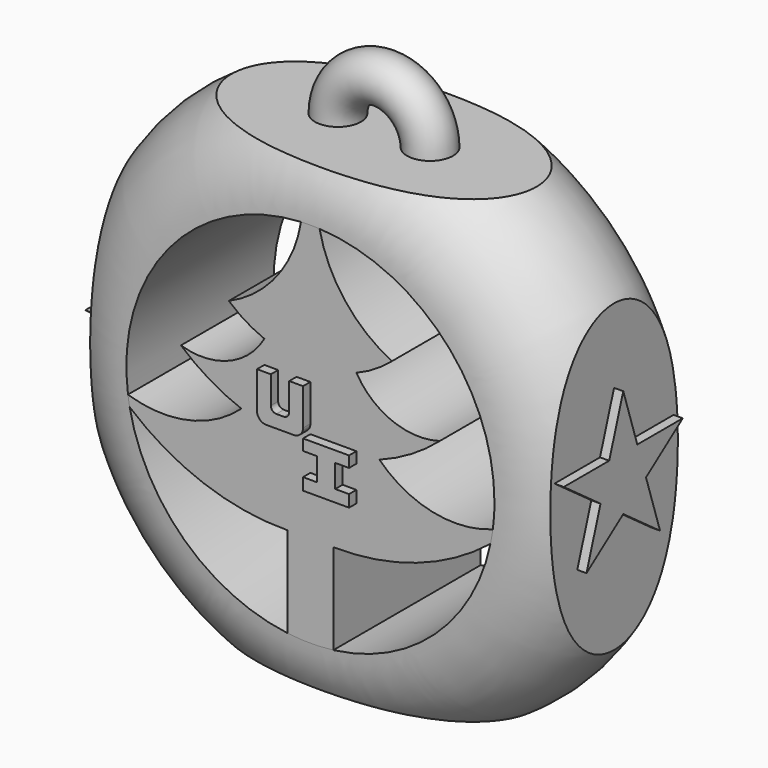
from build123d import *

# Parameters (mm, degrees)
F3_DEPTH  = 145.87753
F4_DEPTH  = 112.83821
F5_DEPTH  = 60.78723
F6_DEPTH  = 63.80149
F8_DEPTH  = 73.0751
F9_DEPTH  = 74.54353
F10_R     = 6.35
F11_ANGLE = 180
F13_DEPTH = 2.54
F15_DEPTH = 2.54
F17_DEPTH = 2.54
F18_W     = 1.778
F18_H     = 3.8097179257
F19_DEPTH = 2.54


with BuildPart() as f1:
    # F0 (on Top) → F1 (revolve)
    with BuildSketch(Plane.XY):
        Polygon((0, 25.4), (0, 0), (0, -25.4), (50.8, -25.4), (50.8, 25.4), align=None)
        with BuildLine():
            ThreePointArc((50.8, -25.4), (76.2, 0), (50.8, 25.4))
            Line((50.8, 25.4), (50.8, -25.4))
        make_face()
    revolve(axis=Axis((0, 12.7, 0), (0, 1, 0)))

    # F2 (on face) → F3 (cut)
    with BuildSketch(Plane.XZ.offset(25.4)):
        with BuildLine():
            Line((-6.35, -50.4015624758), (-6.35, -48.26))
            Line((-6.35, -48.26), (-6.35, -25.4))
            ThreePointArc((-6.35, -25.4), (-29.5469022519, -21.4664320904), (-49.8793656792, -9.6275063977))
            ThreePointArc((-49.8793656792, -9.6275063977), (-34.7284653193, -37.0752437155), (-6.35, -50.4015624758))
        make_face()
    extrude(amount=-F3_DEPTH, mode=Mode.SUBTRACT)

    # F2 (on face) → F4 (cut)
    with BuildSketch(Plane.XZ.offset(25.4)):
        with BuildLine():
            ThreePointArc((19.05, 0), (33.7163803777, -7.9365616125), (50.3499719735, -6.746875))
            ThreePointArc((50.3499719735, -6.746875), (50.6873681318, -3.38093358), (50.8, 0))
            ThreePointArc((50.8, 0), (36.8060252797, 35.0136616639), (2.5339959405, 50.7367604856))
            ThreePointArc((2.5339959405, 50.7367604856), (9.537837341, 35.574870876), (22.5171919996, 25.0642551215))
            ThreePointArc((22.5171919996, 25.0642551215), (17.8635234277, 21.6410042911), (12.7, 19.05))
            ThreePointArc((12.7, 19.05), (22.6505587447, 10.548597504), (35.725363971, 9.9681390439))
            ThreePointArc((35.725363971, 9.9681390439), (27.837494024, 4.2315941172), (19.05, 0))
        make_face()
    extrude(amount=-F4_DEPTH, mode=Mode.SUBTRACT)

    # F2 (on face) → F5 (cut)
    with BuildSketch(Plane.XZ.offset(25.4)):
        with BuildLine():
            ThreePointArc((-2.5916899181, 50.7338461322), (-39.073177711, 32.4642385336), (-50.3499719735, -6.746875))
            ThreePointArc((-50.3499719735, -6.746875), (-33.7914821841, -7.5881507653), (-19.05, 0))
            ThreePointArc((-19.05, 0), (-27.837494024, 4.2315941172), (-35.725363971, 9.9681390439))
            ThreePointArc((-35.725363971, 9.9681390439), (-22.6151878126, 10.4589211052), (-12.7, 19.05))
            ThreePointArc((-12.7, 19.05), (-17.8635234277, 21.6410042911), (-22.5171919996, 25.0642551215))
            ThreePointArc((-22.5171919996, 25.0642551215), (-9.2730208555, 35.3519144815), (-2.5916899181, 50.7338461322))
        make_face()
    extrude(amount=-F5_DEPTH, mode=Mode.SUBTRACT)

    # F2 (on face) → F6 (cut)
    with BuildSketch(Plane.XZ.offset(25.4)):
        with BuildLine():
            Line((6.35, -48.26), (6.35, -50.4015624758))
            ThreePointArc((6.35, -50.4015624758), (34.4111853788, -37.3699119724), (49.7079998206, -10.4763903058))
            ThreePointArc((49.7079998206, -10.4763903058), (29.3310153311, -21.7209786442), (6.35, -25.4))
            Line((6.35, -25.4), (6.35, -48.26))
        make_face()
    extrude(amount=-F6_DEPTH, mode=Mode.SUBTRACT)

    # F7 (on face) → F8 (cut)
    with BuildSketch(Plane.XZ.offset(25.4)):
        Polygon((74.1625726223, -63.5), (0, -63.5), (-69.3134739995, -63.5), (-69.3134739995, -78.2985538244), (74.1625726223, -78.2985538244), align=None)
        Polygon((-63.5, -49.7741550207), (-63.5, 0), (-63.5, 51.4347925782), (-82.2423994541, 51.4347925782), (-82.2423994541, -30.1107019186), (-82.2423994541, -49.7741550207), align=None)
        Polygon((63.5, 56.3506558537), (63.5, 0), (63.5, -52.3766689003), (89.2344713211, -52.3766689003), (89.2344713211, 56.3506558537), align=None)
        Polygon((-58.033619076, 63.5), (0, 63.5), (48.3633466065, 63.5), (48.3633466065, 80.8653309941), (-58.033619076, 80.8653309941), align=None)
    extrude(amount=-F8_DEPTH, mode=Mode.SUBTRACT)

    # F7 (on face) → F9 (cut)
    with BuildSketch(Plane.XZ.offset(25.4)):
        Polygon((74.1625726223, -63.5), (0, -63.5), (-69.3134739995, -63.5), (-69.3134739995, -78.2985538244), (74.1625726223, -78.2985538244), align=None)
        Polygon((-63.5, -49.7741550207), (-63.5, 0), (-63.5, 51.4347925782), (-82.2423994541, 51.4347925782), (-82.2423994541, -30.1107019186), (-82.2423994541, -49.7741550207), align=None)
        Polygon((63.5, 56.3506558537), (63.5, 0), (63.5, -52.3766689003), (89.2344713211, -52.3766689003), (89.2344713211, 56.3506558537), align=None)
        Polygon((-58.033619076, 63.5), (0, 63.5), (48.3633466065, 63.5), (48.3633466065, 80.8653309941), (-58.033619076, 80.8653309941), align=None)
    extrude(amount=-F9_DEPTH, mode=Mode.SUBTRACT)

    # F10 (on face) → F11 (revolve)
    with BuildSketch(Plane.XY.offset(63.5)):
        with Locations((-12.7, 0)):
            Circle(F10_R)
    revolve(axis=Axis((0, 6.2302822633, 63.5), (0, 1, 0)), revolution_arc=F11_ANGLE)

    # F12 (on face) → F13 (join)
    with BuildSketch(Plane(origin=(-63.5, 0, 0), x_dir=(0, -1, 0), z_dir=(-1, 0, 0))):
        Polygon((4.8472570072, 6.6716769086), (0, 21.59), (-4.8472570072, 6.6716769086), (-20.5333101868, 6.6716769086), (-7.8430265898, -2.5483538171), (-12.690283597, -17.4666769086), (0, -8.2466461829), (12.690283597, -17.4666769086), (7.8430265898, -2.5483538171), (20.5333101868, 6.6716769086), align=None)
    extrude(amount=F13_DEPTH)

    # F14 (on face) → F15 (join)
    with BuildSketch(Plane.YZ.offset(63.5)):
        Polygon((4.8472570072, 6.6716769086), (0, 21.59), (-4.8472570072, 6.6716769086), (-20.5333101868, 6.6716769086), (-7.8430265898, -2.5483538171), (-12.690283597, -17.4666769086), (0, -8.2466461829), (12.690283597, -17.4666769086), (7.8430265898, -2.5483538171), (20.5333101868, 6.6716769086), align=None)
    extrude(amount=F15_DEPTH)

    # F16 (on face) → F17 (join)
    with BuildSketch(Plane.XZ.offset(25.4)):
        with BuildLine():
            Line((-10.16, 0), (-2.54, 0))
            ThreePointArc((-2.54, 0), (-0.7439487758, 0.7439487758), (0, 2.54))
            Line((0, 2.54), (0, 12.7))
            Line((0, 12.7), (-3.81, 12.7))
            Line((-3.81, 12.7), (-3.81, 5.08))
            ThreePointArc((-3.81, 5.08), (-4.2563692655, 4.0023692655), (-5.334, 3.556))
            Line((-5.334, 3.556), (-7.366, 3.556))
            ThreePointArc((-7.366, 3.556), (-8.4436307345, 4.0023692655), (-8.89, 5.08))
            Line((-8.89, 5.08), (-8.89, 12.7))
            Line((-8.89, 12.7), (-12.7, 12.7))
            Line((-12.7, 12.7), (-12.7, 2.54))
            ThreePointArc((-12.7, 2.54), (-11.9560512242, 0.7439487758), (-10.16, 0))
        make_face()
        Polygon((12.7, 0), (0, 0), (0, -3.048), (3.81, -3.048), (3.81, -9.398), (0, -9.398), (0, -12.7), (12.7, -12.7), (12.7, -9.398), (8.89, -9.398), (8.89, -3.048), (12.7, -3.048), align=None)
    extrude(amount=F17_DEPTH)

    # F18 (on face) → F19 (cut)
    with BuildSketch(Plane(origin=(0, 25.4, 0), x_dir=(-1, 0, 0), z_dir=(0, 1, 0))):
        with BuildLine():
            Line((-9.6404092672, 29.8901284918), (-10.9104092672, 29.8901284918))
            Line((-10.9104092672, 29.8901284918), (-10.9104092672, 22.2701284918))
            Line((-10.9104092672, 22.2701284918), (-9.6404092672, 22.2701284918))
            Line((-9.6404092672, 22.2701284918), (-9.6404092672, 26.0801284918))
            ThreePointArc((-9.6404092672, 26.0801284918), (-7.7354092672, 27.9851284918), (-9.6404092672, 29.8901284918))
        make_face()
        with BuildLine():
            ThreePointArc((-9.6404092672, 28.6201284918), (-9.0054092672, 27.9851284918), (-9.6404092672, 27.3501284918))
            Line((-9.6404092672, 27.3501284918), (-9.6404092672, 28.6201284918))
        make_face(mode=Mode.SUBTRACT)
        Polygon((-6.0829976574, 29.8901284918), (-7.2398507036, 29.8901284918), (-6.1531099491, 26.0801284918), (-6.1531099491, 22.2701284918), (-4.6807518229, 22.2701284918), (-4.6807518229, 26.0801284918), (-3.4888419323, 29.8901284918), (-4.5755831525, 29.8901284918), (-5.2767065354, 27.5548957288), align=None)
        with BuildLine():
            Line((-0.7772596402, 27.9851284918), (0.1879403598, 27.9851284918))
            ThreePointArc((0.1879403598, 27.9851284918), (-2.2427729999, 29.8161529219), (-3.3319026464, 26.9745311114))
            Line((-3.3319026464, 26.9745311114), (-0.9224853423, 24.6770007116))
            ThreePointArc((-0.9224853423, 24.6770007116), (-1.4558287895, 23.2723646896), (-2.6568596402, 24.1751284918))
            Line((-2.6568596402, 24.1751284918), (-3.6220596402, 24.1751284918))
            ThreePointArc((-3.6220596402, 24.1751284918), (-1.1202837596, 22.3660172326), (-0.1859614267, 25.3086024706))
            Line((-0.1859614267, 25.3086024706), (-2.5392670769, 27.529937355))
            ThreePointArc((-2.5392670769, 27.529937355), (-1.9521271741, 28.8950555738), (-0.7772596402, 27.9851284918))
        make_face()
        Polygon((0.6782517303, 29.8901284918), (0.6782517303, 27.9851284918), (1.6867873492, 27.9851284918), (1.6867873492, 24.0079667419), (0.6782517303, 24.0079667419), (0.6782517303, 22.2701284918), (3.8362862542, 22.2701284918), (3.8362862542, 24.0079667419), (2.792882733, 24.0079667419), (2.792882733, 27.9851284918), (3.8362862542, 27.9851284918), (3.8362862542, 29.8901284918), align=None)
        with BuildLine():
            Line((6.804166889, 27.9851284918), (7.769366889, 27.9851284918))
            ThreePointArc((7.769366889, 27.9851284918), (5.864366889, 29.8901284918), (3.959366889, 27.9851284918))
            Line((3.959366889, 27.9851284918), (3.959366889, 24.1751284918))
            ThreePointArc((3.959366889, 24.1751284918), (5.864366889, 22.2701284918), (7.769366889, 24.1751284918))
            Line((7.769366889, 24.1751284918), (6.804166889, 24.1751284918))
            ThreePointArc((6.804166889, 24.1751284918), (5.864366889, 23.2353284918), (4.924566889, 24.1751284918))
            Line((4.924566889, 24.1751284918), (4.924566889, 27.9851284918))
            ThreePointArc((4.924566889, 27.9851284918), (5.864366889, 28.9249284918), (6.804166889, 27.9851284918))
        make_face()
        with BuildLine():
            Line((11.2196713802, 28.0089865917), (12.1848713802, 28.0089865917))
            ThreePointArc((12.1848713802, 28.0089865917), (9.7541580205, 29.8400110218), (8.665028374, 26.9983892113))
            Line((8.665028374, 26.9983892113), (11.0744456782, 24.7008588115))
            ThreePointArc((11.0744456782, 24.7008588115), (10.541102231, 23.2962227895), (9.3400713802, 24.1989865917))
            Line((9.3400713802, 24.1989865917), (8.3748713802, 24.1989865917))
            ThreePointArc((8.3748713802, 24.1989865917), (10.8766472608, 22.3898753325), (11.8109695937, 25.3324605705))
            Line((11.8109695937, 25.3324605705), (9.4576639435, 27.5537954549))
            ThreePointArc((9.4576639435, 27.5537954549), (10.0448038464, 28.9189136737), (11.2196713802, 28.0089865917))
        make_face()
        with BuildLine():
            ThreePointArc((0.8185887025, 12.3334978637), (1.8585535046, 14.4736148267), (0, 15.9593490814))
            Line((0, 15.9593490814), (-1.172576216, 15.9593490814))
            Line((-1.172576216, 15.9593490814), (-1.172576216, 8.3393490814))
            Line((-1.172576216, 8.3393490814), (0, 8.3393490814))
            Line((0, 8.3393490814), (-0.0409300439, 12.1491292236))
            Line((-0.0409300439, 12.1491292236), (1.2539090822, 8.3393490814))
            Line((1.2539090822, 8.3393490814), (2.176089641, 8.3393490814))
            Line((2.176089641, 8.3393490814), (0.8185887025, 12.3334978637))
        make_face()
        with BuildLine():
            ThreePointArc((0, 14.6893490814), (0.6608410059, 14.0539092896), (0, 13.4184694977))
            Line((0, 13.4184694977), (0, 14.6893490814))
        make_face(mode=Mode.SUBTRACT)
        Polygon((-2.8536822647, 8.3393490814), (-1.8917083507, 8.3393490814), (-2.7851010673, 15.9593490814), (-4.0093795396, 15.9593490814), (-5.0351265818, 8.3393490814), (-4.1086454876, 8.3393490814), (-3.8439366035, 10.8610698953), (-3.0519899447, 10.8610698953), align=None)
        Polygon((-3.0519899447, 11.8864575601), (-3.8439366035, 11.8779493496), (-3.3972403035, 14.6991554648), align=None, mode=Mode.SUBTRACT)
        Polygon((-6.1662695371, 14.5888226107), (-6.1662695371, 15.9593490814), (-9.5896506682, 15.9593490814), (-9.5896506682, 8.3393490814), (-6.1662695371, 8.3393490814), (-6.1662695371, 9.4340760261), (-8.0943806097, 9.4340760261), (-8.0943806097, 11.3621875644), (-7.0713013411, 11.3621875644), (-7.0713013411, 12.7787590027), (-8.0943806097, 12.7787590027), (-8.0943806097, 14.5888226107), align=None)
        Polygon((6.4033485013, 15.9593490814), (2.5933485013, 15.9593490814), (2.5933485013, 14.2730418593), (3.8633485013, 14.2730418593), (3.8633485013, 8.3393490814), (5.1333485013, 8.3393490814), (5.1333485013, 14.2730418593), (6.4033485013, 14.2730418593), align=None)
        Polygon((8.2599209775, 15.9593490814), (6.9899209775, 15.9593490814), (6.9899209775, 8.3393490814), (8.2599209775, 8.3393490814), (8.2599209775, 11.2392501906), (9.5299209775, 11.2392501906), (9.5299209775, 8.3393490814), (10.7999209775, 8.3393490814), (10.7999209775, 15.9593490814), (9.5299209775, 15.9593490814), (9.5299209775, 12.9472445697), (8.2599209775, 12.9472445697), align=None)
        Polygon((-1.370091957, 4.005569917), (-3.148091957, 4.005569917), (-3.148091957, 0.1958519914), (0.4077764083, 0.1958519914), align=None)
        with BuildLine():
            Line((3.3393304329, 4.005569917), (3.3393304329, 0.1958519914))
            Line((3.3393304329, 0.1958519914), (3.3393304329, -3.614430083))
            Line((3.3393304329, -3.614430083), (5.1220841706, -3.6138659343))
            ThreePointArc((5.1220841706, -3.6138659343), (8.9318020963, 0.1958519914), (5.1220841706, 4.005569917))
            Line((5.1220841706, 4.005569917), (3.3393304329, 4.005569917))
        make_face()
        with BuildLine():
            Line((5.1220841706, -1.6719848156), (5.1220841706, 0.1958519914))
            Line((5.1220841706, 0.1958519914), (5.1220841706, 2.0636887983))
            ThreePointArc((5.1220841706, 2.0636887983), (6.9899209775, 0.1958519914), (5.1220841706, -1.6719848156))
        make_face(mode=Mode.SUBTRACT)
        Polygon((-4.1901458462, -3.5724284147), (-4.6319508683, 0.1958519914), (-5.0835385628, 4.0475715853), (-6.3078170351, 4.0475715853), (-7.3335640773, -3.5724284147), (-6.4070829831, -3.5724284147), (-6.142374099, -1.0507076008), (-5.3504274401, -1.0507076008), (-5.1521197602, -3.5724284147), align=None)
        Polygon((-5.6956777989, 2.7873779687), (-5.3775756409, 0.1958519914), (-5.3504274401, -0.025319936), (-6.142374099, -0.0338281465), align=None, mode=Mode.SUBTRACT)
        Polygon((0.4077764083, 0.1958519914), (-3.148091957, 0.1958519914), (-3.148091957, -3.614430083), (-1.370091957, -3.614430083), (-1.370091957, 0.195569917), (0.407908043, -3.614430083), (2.185908043, -3.614430083), (2.185908043, 0.1958519914), (0.407908043, 0.1958519914), (0.407908043, 0.195569917), align=None)
        Polygon((0.407908043, 0.1958519914), (0.4077764083, 0.1958519914), (0.407908043, 0.195569917), align=None)
        with Locations((1.296908043, 2.1007109542)):
            Rectangle(F18_W, F18_H)
        with BuildLine():
            ThreePointArc((-17.7928302241, -12.0691160193), (-20.2235435839, -10.2380915893), (-21.3126732303, -13.0797133997))
            Line((-21.3126732303, -13.0797133997), (-18.9032559262, -15.3772437995))
            ThreePointArc((-18.9032559262, -15.3772437995), (-19.4365993734, -16.7818798215), (-20.6376302241, -15.8791160193))
            Line((-20.6376302241, -15.8791160193), (-21.6028302241, -15.8791160193))
            ThreePointArc((-21.6028302241, -15.8791160193), (-19.1010543435, -17.6882272785), (-18.1667320107, -14.7456420405))
            Line((-18.1667320107, -14.7456420405), (-20.5200376609, -12.5243071561))
            ThreePointArc((-20.5200376609, -12.5243071561), (-19.932897758, -11.1591889373), (-18.7580302241, -12.0691160193))
            Line((-18.7580302241, -12.0691160193), (-17.7928302241, -12.0691160193))
        make_face()
        with BuildLine():
            Line((-15.4833408561, -10.3998845315), (-16.7533408561, -10.3998845315))
            Line((-16.7533408561, -10.3998845315), (-16.7533408561, -18.0198845315))
            Line((-16.7533408561, -18.0198845315), (-15.4833408561, -18.0198845315))
            Line((-15.4833408561, -18.0198845315), (-15.4833408561, -14.2098845315))
            ThreePointArc((-15.4833408561, -14.2098845315), (-13.5783408561, -12.3048845315), (-15.4833408561, -10.3998845315))
        make_face()
        with BuildLine():
            ThreePointArc((-15.4833408561, -11.6698845315), (-14.8483408561, -12.3048845315), (-15.4833408561, -12.9398845315))
            Line((-15.4833408561, -12.9398845315), (-15.4833408561, -11.6698845315))
        make_face(mode=Mode.SUBTRACT)
        Polygon((-12.4937925161, -15.3641000207), (-11.7018458572, -15.3641000207), (-11.5035381773, -17.8858208346), (-10.5415642633, -17.8858208346), (-11.4349569798, -10.2658208346), (-12.6592354522, -10.2658208346), (-13.6849824944, -17.8858208346), (-12.7585014002, -17.8858208346), align=None)
        Polygon((-12.4937925161, -14.3472205664), (-12.047096216, -11.5260144512), (-11.7018458572, -14.3387123559), align=None, mode=Mode.SUBTRACT)
        with BuildLine():
            Line((-7.4640665518, -12.3900366302), (-6.4988665518, -12.3900366302))
            ThreePointArc((-6.4988665518, -12.3900366302), (-8.4038665518, -10.4850366302), (-10.3088665518, -12.3900366302))
            Line((-10.3088665518, -12.3900366302), (-10.3088665518, -16.2000366302))
            ThreePointArc((-10.3088665518, -16.2000366302), (-8.4038665518, -18.1050366302), (-6.4988665518, -16.2000366302))
            Line((-6.4988665518, -16.2000366302), (-7.4640665518, -16.2000366302))
            ThreePointArc((-7.4640665518, -16.2000366302), (-8.4038665518, -17.1398366302), (-9.3436665518, -16.2000366302))
            Line((-9.3436665518, -16.2000366302), (-9.3436665518, -12.3900366302))
            ThreePointArc((-9.3436665518, -12.3900366302), (-8.4038665518, -11.4502366302), (-7.4640665518, -12.3900366302))
        make_face()
        Polygon((-4.8080869019, -11.5690755171), (-2.8799758293, -11.5690755171), (-2.8799758293, -10.1985490463), (-6.3033569604, -10.1985490463), (-6.3033569604, -17.8185490463), (-2.8799758293, -17.8185490463), (-2.8799758293, -16.7238221017), (-4.8080869019, -16.7238221017), (-4.8080869019, -14.7957105634), (-3.7850076333, -14.7957105634), (-3.7850076333, -13.3791391251), (-4.8080869019, -13.3791391251), align=None)
        with BuildLine():
            Line((3.1216325355, -12.0018400705), (4.0868325355, -12.0018400705))
            ThreePointArc((4.0868325355, -12.0018400705), (1.6561191757, -10.1708156404), (0.5669895293, -13.0124374509))
            Line((0.5669895293, -13.0124374509), (2.9764068334, -15.3099678507))
            ThreePointArc((2.9764068334, -15.3099678507), (2.4430633862, -16.7146038727), (1.2420325355, -15.8118400705))
            Line((1.2420325355, -15.8118400705), (0.2768325355, -15.8118400705))
            ThreePointArc((0.2768325355, -15.8118400705), (2.7786084161, -17.6209513297), (3.7129307489, -14.6783660916))
            Line((3.7129307489, -14.6783660916), (1.3596250987, -12.4570312072))
            ThreePointArc((1.3596250987, -12.4570312072), (1.9467650016, -11.0919129885), (3.1216325355, -12.0018400705))
        make_face()
        with BuildLine():
            Line((7.037893084, -12.0339513101), (8.003093084, -12.0339513101))
            ThreePointArc((8.003093084, -12.0339513101), (6.098093084, -10.1289513101), (4.193093084, -12.0339513101))
            Line((4.193093084, -12.0339513101), (4.193093084, -15.8439513101))
            ThreePointArc((4.193093084, -15.8439513101), (6.098093084, -17.7489513101), (8.003093084, -15.8439513101))
            Line((8.003093084, -15.8439513101), (7.037893084, -15.8439513101))
            ThreePointArc((7.037893084, -15.8439513101), (6.098093084, -16.7837513101), (5.158293084, -15.8439513101))
            Line((5.158293084, -15.8439513101), (5.158293084, -12.0339513101))
            ThreePointArc((5.158293084, -12.0339513101), (6.098093084, -11.0941513101), (7.037893084, -12.0339513101))
        make_face()
        Polygon((8.3163501501, -17.6631173386), (11.474384674, -17.6631173386), (11.474384674, -15.9252790885), (10.4309811528, -15.9252790885), (10.4309811528, -11.9481173386), (11.474384674, -11.9481173386), (11.474384674, -10.0431173386), (8.3163501501, -10.0431173386), (8.3163501501, -11.9481173386), (9.324885769, -11.9481173386), (9.324885769, -15.9252790885), (8.3163501501, -15.9252790885), align=None)
        Polygon((11.7785781622, -9.9881362684), (11.7785781622, -17.6081362684), (15.2019592933, -17.6081362684), (15.2019592933, -16.5134093237), (13.2738482207, -16.5134093237), (13.2738482207, -14.5852977854), (14.2969274893, -14.5852977854), (14.2969274893, -13.1687263471), (13.2738482207, -13.1687263471), (13.2738482207, -11.3586627391), (15.2019592933, -11.3586627391), (15.2019592933, -9.9881362684), align=None)
        Polygon((17.6249677652, -17.7305926415), (17.6249677652, -13.9205926415), (19.4029677652, -17.7305926415), (20.6729677652, -17.7305926415), (20.6729677652, -10.1105926415), (19.4029677652, -10.1105926415), (19.4029677652, -13.9205926415), (17.6249677652, -10.1105926415), (16.3549677652, -10.1105926415), (16.3549677652, -17.7305926415), align=None)
        with BuildLine():
            Line((21.0018701155, -11.8954446372), (21.0018701155, -15.7054446372))
            ThreePointArc((21.0018701155, -15.7054446372), (22.9068701155, -17.6104446372), (24.8118701155, -15.7054446372))
            Line((24.8118701155, -15.7054446372), (23.8466701155, -15.7054446372))
            ThreePointArc((23.8466701155, -15.7054446372), (22.9068701155, -16.6452446372), (21.9670701155, -15.7054446372))
            Line((21.9670701155, -15.7054446372), (21.9670701155, -11.8954446372))
            ThreePointArc((21.9670701155, -11.8954446372), (22.9068701155, -10.9556446372), (23.8466701155, -11.8954446372))
            Line((23.8466701155, -11.8954446372), (24.8118701155, -11.8954446372))
            ThreePointArc((24.8118701155, -11.8954446372), (22.9068701155, -9.9904446372), (21.0018701155, -11.8954446372))
        make_face()
        Polygon((28.6118942313, -11.3561407176), (28.6118942313, -9.9856142468), (25.1885131001, -9.9856142468), (25.1885131001, -17.6056142468), (28.6118942313, -17.6056142468), (28.6118942313, -16.5108873022), (26.6837831587, -16.5108873022), (26.6837831587, -14.5827757639), (27.7068624273, -14.5827757639), (27.7068624273, -13.1662043256), (26.6837831587, -13.1662043256), (26.6837831587, -11.3561407176), align=None)
    extrude(amount=-F19_DEPTH, mode=Mode.SUBTRACT)


solid = f1.part
